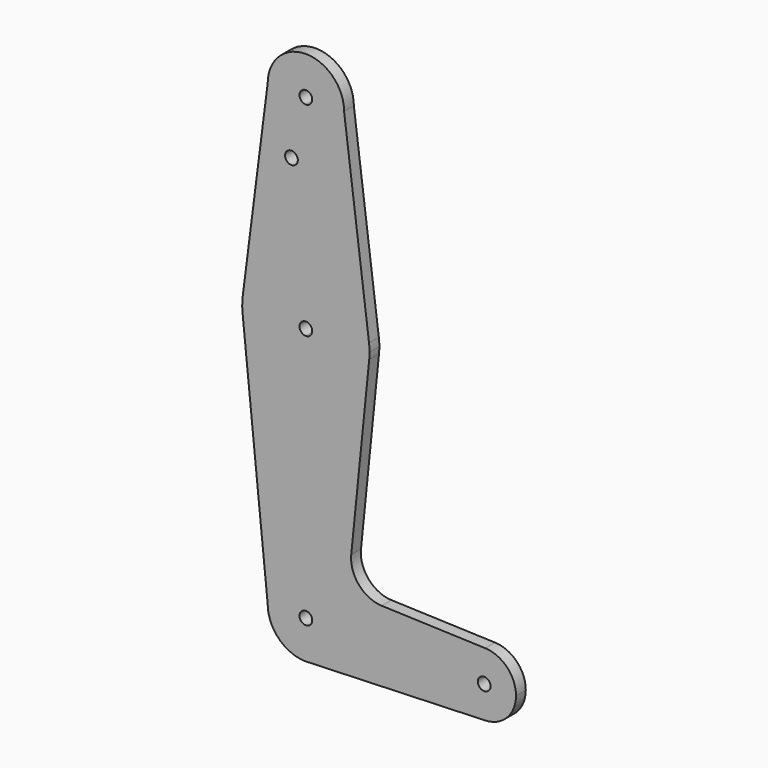
from build123d import *

# Parameters (mm, degrees)
F0_R     = 1.5875
F1_DEPTH = 3.048


with BuildPart() as f1:
    # F0 (on Front) → F1 (new body)
    with BuildSketch(Plane.XZ):
        with BuildLine():
            ThreePointArc((-9.525, 114.3), (-6.7351920908, 107.5648079092), (0, 104.775))
            ThreePointArc((0, 104.775), (6.7351920908, 107.5648079092), (9.525, 114.3))
            ThreePointArc((9.525, 114.3), (0, 123.825), (-9.525, 114.3))
        make_face()
        with BuildLine():
            ThreePointArc((1.5875, 114.3), (1.1225320151, 113.1774679849), (0, 112.7125))
            ThreePointArc((0, 112.7125), (-1.1225320151, 115.4225320151), (1.5875, 114.3))
        make_face(mode=Mode.SUBTRACT)
        with BuildLine():
            ThreePointArc((9.525, 114.3), (6.7351920908, 107.5648079092), (0, 104.775))
            Line((0, 104.775), (0, 79.375))
            ThreePointArc((0, 79.375), (10.4912828548, 75.4142187767), (15.7474569047, 65.5082893304))
            Line((15.7474569047, 65.5082893304), (9.525, 114.3))
        make_face()
        with BuildLine():
            Line((0, 79.375), (0, 104.775))
            ThreePointArc((0, 104.775), (-6.7351920908, 107.5648079092), (-9.525, 114.3))
            Line((-9.525, 114.3), (-15.7474569047, 65.5082893304))
            ThreePointArc((-15.7474569047, 65.5082893304), (-10.4912828548, 75.4142187767), (0, 79.375))
        make_face()
        with Locations((-3.5995717623, 99.8473976808)):
            Circle(F0_R, mode=Mode.SUBTRACT)
        with BuildLine():
            ThreePointArc((15.7474569047, 65.5082893304), (10.4912828548, 75.4142187767), (0, 79.375))
            Line((0, 79.375), (0, 65.0875))
            ThreePointArc((0, 65.0875), (1.1225320151, 64.6225320151), (1.5875, 63.5))
            ThreePointArc((1.5875, 63.5), (1.1225320151, 62.3774679849), (0, 61.9125))
            Line((0, 61.9125), (0, 47.625))
            ThreePointArc((0, 47.625), (10.644756084, 51.722700101), (15.7942028036, 61.9003804205))
            ThreePointArc((15.7942028036, 61.9003804205), (15.8547878338, 62.6991705884), (15.875, 63.5))
            ThreePointArc((15.875, 63.5), (15.8430821396, 64.5061676396), (15.7474569047, 65.5082893304))
        make_face()
        with BuildLine():
            Line((0, 65.0875), (0, 79.375))
            ThreePointArc((0, 79.375), (-10.4912828548, 75.4142187767), (-15.7474569047, 65.5082893304))
            ThreePointArc((-15.7474569047, 65.5082893304), (-15.873667691, 63.7056672947), (-15.7942028036, 61.9003804205))
            ThreePointArc((-15.7942028036, 61.9003804205), (-10.644756084, 51.722700101), (0, 47.625))
            Line((0, 47.625), (0, 61.9125))
            ThreePointArc((0, 61.9125), (-1.5875, 63.5), (0, 65.0875))
        make_face()
        with BuildLine():
            ThreePointArc((0, 47.625), (-10.644756084, 51.722700101), (-15.7942028036, 61.9003804205))
            Line((-15.7942028036, 61.9003804205), (-9.525, 0))
            ThreePointArc((-9.525, 0), (-6.7351920908, 6.7351920908), (0, 9.525))
            Line((0, 9.525), (0, 47.625))
        make_face()
        with BuildLine():
            ThreePointArc((15.7942028036, 61.9003804205), (10.644756084, 51.722700101), (0, 47.625))
            Line((0, 47.625), (0, 9.525))
            ThreePointArc((0, 9.525), (6.7351920908, 6.7351920908), (9.525, 0))
            Line((9.525, 0), (36.5125, 0))
            ThreePointArc((36.5125, 0), (38.9380895153, 5.7116327839), (44.7324052746, 7.9324746146))
            Line((44.7324052746, 7.9324746146), (18.9341027877, 8.850924033))
            ThreePointArc((18.9341027877, 8.850924033), (13.2249738114, 11.5709798305), (11.3072231466, 17.5971800924))
            Line((11.3072231466, 17.5971800924), (15.7942028036, 61.9003804205))
        make_face()
        with BuildLine():
            ThreePointArc((0, 9.525), (-6.7351920908, 6.7351920908), (-9.525, 0))
            ThreePointArc((-9.525, 0), (-6.7351920908, -6.7351920908), (0, -9.525))
            Line((0, -9.525), (0.6773435479, -9.500885786))
            ThreePointArc((0.6773435479, -9.500885786), (6.9705567315, -6.4912990883), (9.525, 0))
            Line((9.525, 0), (1.5875, 0))
            ThreePointArc((1.5875, 0), (-1.1225320151, -1.1225320151), (0, 1.5875))
            Line((0, 1.5875), (0, 9.525))
        make_face()
        with BuildLine():
            Line((0.6773435479, -9.500885786), (0, -9.525))
            ThreePointArc((0, -9.525), (0.3388863295, -9.5189695375), (0.6773435479, -9.500885786))
        make_face()
        with BuildLine():
            Line((36.5125, 0), (9.525, 0))
            ThreePointArc((9.525, 0), (6.9705567315, -6.4912990883), (0.6773435479, -9.500885786))
            Line((0.6773435479, -9.500885786), (44.7324052746, -7.9324746146))
            ThreePointArc((44.7324052746, -7.9324746146), (38.9380895153, -5.7116327839), (36.5125, 0))
        make_face()
        with BuildLine():
            ThreePointArc((44.7324052746, 7.9324746146), (38.9380895153, 5.7116327839), (36.5125, 0))
            ThreePointArc((36.5125, 0), (38.9380895153, -5.7116327839), (44.7324052746, -7.9324746146))
            ThreePointArc((44.7324052746, -7.9324746146), (50.1616327839, -5.5119104847), (52.3875, 0))
            ThreePointArc((52.3875, 0), (50.1616327839, 5.5119104847), (44.7324052746, 7.9324746146))
        make_face()
        with BuildLine():
            ThreePointArc((46.0375, 0), (44.45, -1.5875), (42.8625, 0))
            ThreePointArc((42.8625, 0), (44.45, 1.5875), (46.0375, 0))
        make_face(mode=Mode.SUBTRACT)
        with BuildLine():
            ThreePointArc((9.525, 0), (6.7351920908, 6.7351920908), (0, 9.525))
            Line((0, 9.525), (0, 1.5875))
            ThreePointArc((0, 1.5875), (1.1225320151, 1.1225320151), (1.5875, 0))
            Line((1.5875, 0), (9.525, 0))
        make_face()
    extrude(amount=F1_DEPTH)


solid = f1.part
